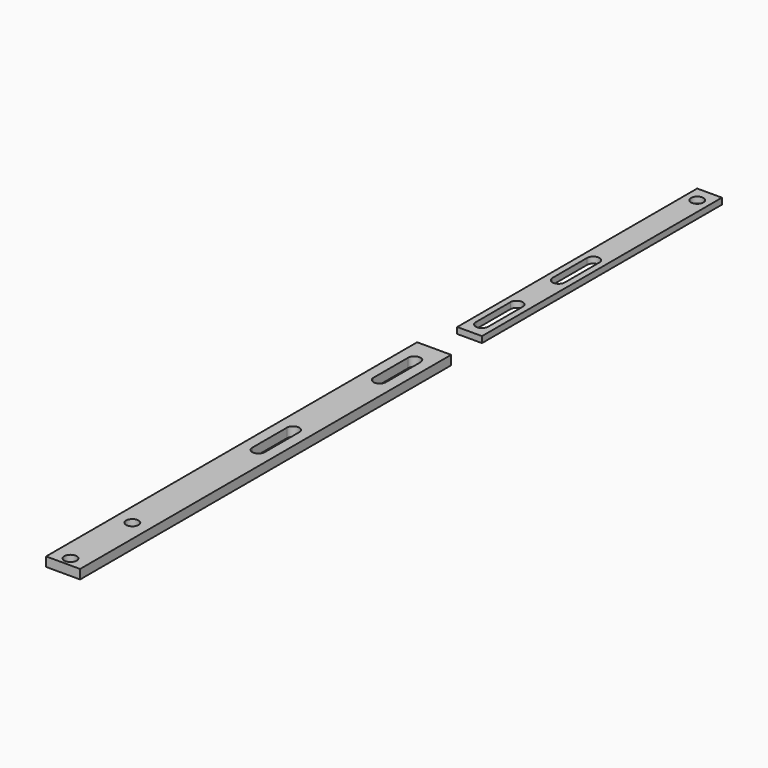
from build123d import *

# Parameters (mm, degrees)
F0_W     = 8
F0_H     = 97
F0_R     = 2
F2_DEPTH = 2
F1_W     = 11
F1_H     = 150
F1_R     = 2
F3_DEPTH = 3


with BuildPart() as f2:
    # F0 (on Top) → F2 (new body)
    with BuildSketch(Plane.XY):
        with Locations((0, 49.596006)):
            Rectangle(F0_W, F0_H)
        with BuildLine():
            Line((-2, 6.096006), (-2, 20.096006))
            ThreePointArc((-2, 20.096006), (0, 22.096006), (2, 20.096006))
            Line((2, 20.096006), (2, 6.096006))
            ThreePointArc((2, 6.096006), (0, 4.096006), (-2, 6.096006))
        make_face(mode=Mode.SUBTRACT)
        with BuildLine():
            Line((-2, 37.096006), (-2, 51.096006))
            ThreePointArc((-2, 51.096006), (0, 53.096006), (2, 51.096006))
            Line((2, 51.096006), (2, 37.096006))
            ThreePointArc((2, 37.096006), (0, 35.096006), (-2, 37.096006))
        make_face(mode=Mode.SUBTRACT)
        with Locations((0, 93.096006)):
            Circle(F0_R, mode=Mode.SUBTRACT)
    extrude(amount=F2_DEPTH)


with BuildPart() as f3:
    # F1 (on Top) → F3 (new body)
    with BuildSketch(Plane.XY):
        with Locations((0, -88.244435)):
            Rectangle(F1_W, F1_H)
        with Locations((0, -160.244435)):
            Circle(F1_R, mode=Mode.SUBTRACT)
        with Locations((0, -135.244435)):
            Circle(F1_R, mode=Mode.SUBTRACT)
        with BuildLine():
            Line((-2, -84.244435), (-2, -70.244435))
            ThreePointArc((-2, -70.244435), (0, -68.244435), (2, -70.244435))
            Line((2, -70.244435), (2, -84.244435))
            ThreePointArc((2, -84.244435), (0, -86.244435), (-2, -84.244435))
        make_face(mode=Mode.SUBTRACT)
        with BuildLine():
            Line((-2, -35.244435), (-2, -21.244435))
            ThreePointArc((-2, -21.244435), (0, -19.244435), (2, -21.244435))
            Line((2, -21.244435), (2, -35.244435))
            ThreePointArc((2, -35.244435), (0, -37.244435), (-2, -35.244435))
        make_face(mode=Mode.SUBTRACT)
    extrude(amount=F3_DEPTH)


solid = Compound([f2.part, f3.part])
